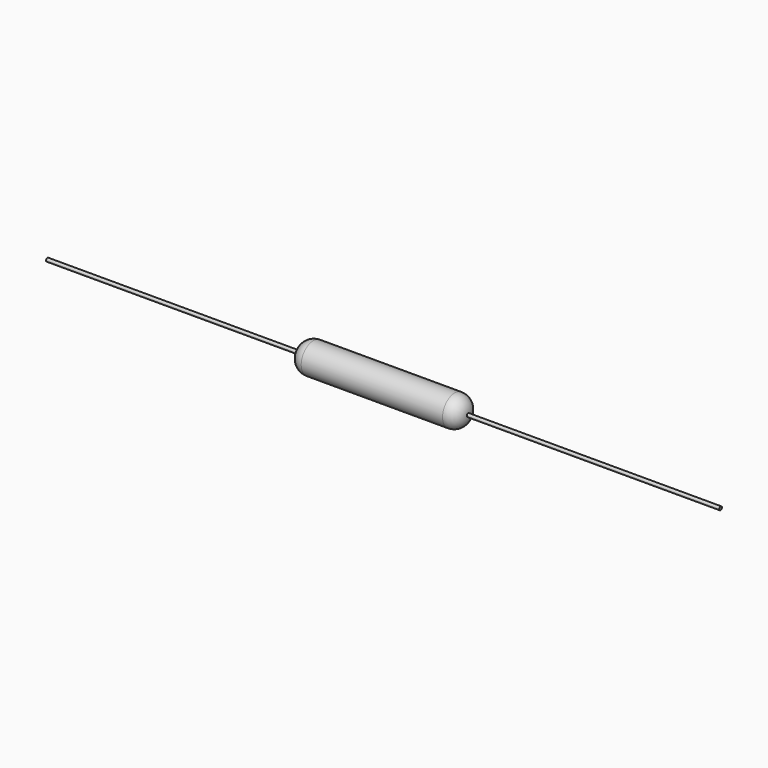
from build123d import *

# Parameters (mm, degrees)
F1_R       = 0.9
F3_R       = 0.8
F2_FACE_R  = 0.1
F2_FACE1_R = 0.1


with BuildPart() as f2:
    # F2: sweep along a path in F0
    with BuildLine(Plane.XY) as f2_path:
        Line((-10, 0), (0, 0))
    # F1 (on Right) → F2 (sweep)
    with BuildSketch(Plane.YZ):
        Circle(F1_R)
    sweep(path=f2_path.line)

    # F3
    f3_edges = [f2.edges().sort_by_distance(p)[0] for p in [
        (0, -0.9, 0),
        (-10, -0.9, 0),
    ]]
    fillet(f3_edges, radius=F3_R)

    # F5: sweep along a path in F4
    with BuildLine(Plane.XY) as f5_path:
        Line((0, 0), (15, 0))
    # F2_face (on face) → F5 (sweep)
    with BuildSketch(Plane.YZ):
        Circle(F2_FACE_R)
    sweep(path=f5_path.line)

    # F7: sweep along a path in F6
    with BuildLine(Plane.XY) as f7_path:
        Line((-10, 0), (-25, 0))
    # F2_face1 (on face) → F7 (sweep)
    with BuildSketch(Plane(origin=(-10, 0, 0), x_dir=(0, -1, 0), z_dir=(-1, 0, 0))):
        Circle(F2_FACE1_R)
    sweep(path=f7_path.line)


solid = f2.part
